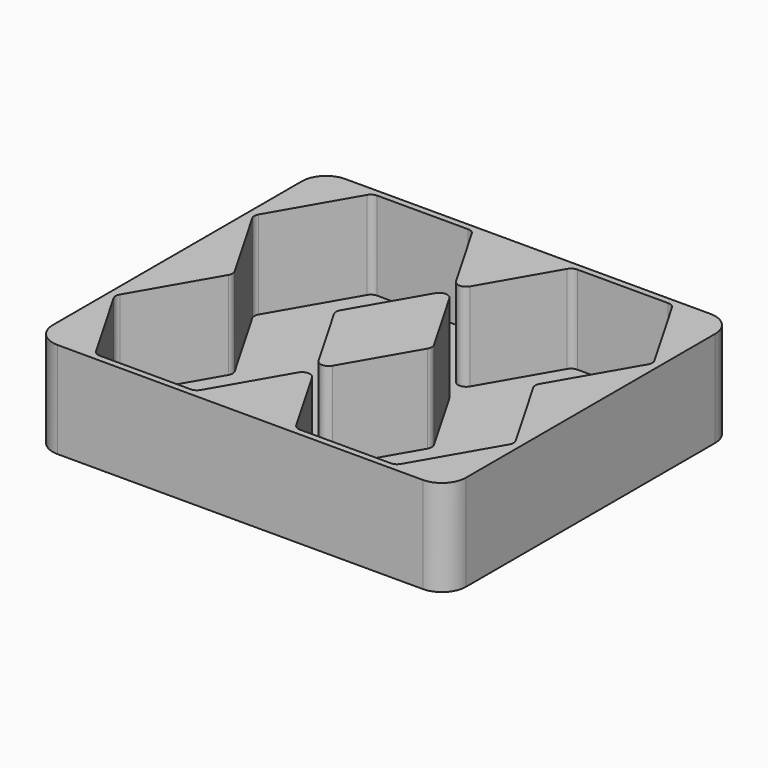
from build123d import *

# Parameters (mm, degrees)
F1_DEPTH = 1
F0_W     = 51.6
F0_H     = 44.90127
F2_DEPTH = 12
F3_R     = 3
F4_R     = 1


with BuildPart() as f1:
    # F0 (on Top) → F1 (new body)
    with BuildSketch(Plane.XY):
        Polygon((18.75, 0), (25, 10.825318), (18.75, 21.650635), (6.25, 21.650635), (0, 10.825318), (-6.25, 21.650635), (-18.75, 21.650635), (-25, 10.825318), (-18.75, 0), (-25, -10.825318), (-18.75, -21.650635), (-6.25, -21.650635), (0, -10.825318), (6.25, -21.650635), (18.75, -21.650635), (25, -10.825318), align=None)
        Polygon((-6.13453, 0), (0, 10.625318), (6.13453, 0), (0, -10.625318), align=None, mode=Mode.SUBTRACT)
    extrude(amount=F1_DEPTH)

    # F0 (on Top) → F2 (join)
    with BuildSketch(Plane.XY):
        Rectangle(F0_W, F0_H)
        Polygon((18.75, 21.650635), (25, 10.825318), (18.75, 0), (25, -10.825318), (18.75, -21.650635), (6.25, -21.650635), (0, -10.825318), (-6.25, -21.650635), (-18.75, -21.650635), (-25, -10.825318), (-18.75, 0), (-25, 10.825318), (-18.75, 21.650635), (-6.25, 21.650635), (0, 10.825318), (6.25, 21.650635), align=None, mode=Mode.SUBTRACT)
        Polygon((6.13453, 0), (0, 10.625318), (-6.13453, 0), (0, -10.625318), align=None)
    extrude(amount=F2_DEPTH)

    # F3
    f3_edges = [f1.edges().sort_by_distance(p)[0] for p in [
        (25.8, -22.450635, 6),
        (25.8, 22.450635, 6),
        (-25.8, -22.450635, 6),
        (-25.8, 22.450635, 6),
    ]]
    fillet(f3_edges, radius=F3_R)

    # F4
    f4_edges = [f1.edges().sort_by_distance(p)[0] for p in [
        (0, -10.825318, 6.5),
        (0, -10.625318, 6.5),
        (6.13453, 0, 6.5),
        (0, 10.825318, 6.5),
        (0, 10.625318, 6.5),
        (-25, 10.825318, 6.5),
        (-18.75, 0, 6.5),
        (-25, -10.825318, 6.5),
        (-6.13453, 0, 6.5),
        (-18.75, -21.650635, 6.5),
        (-6.25, -21.650635, 6.5),
        (-6.25, 21.650635, 6.5),
        (-18.75, 21.650635, 6.5),
        (6.25, -21.650635, 6.5),
        (18.75, -21.650635, 6.5),
        (18.75, 0, 6.5),
        (6.25, 21.650635, 6.5),
        (18.75, 21.650635, 6.5),
        (25, 10.825318, 6.5),
        (25, -10.825318, 6.5),
    ]]
    fillet(f4_edges, radius=F4_R)


solid = f1.part
